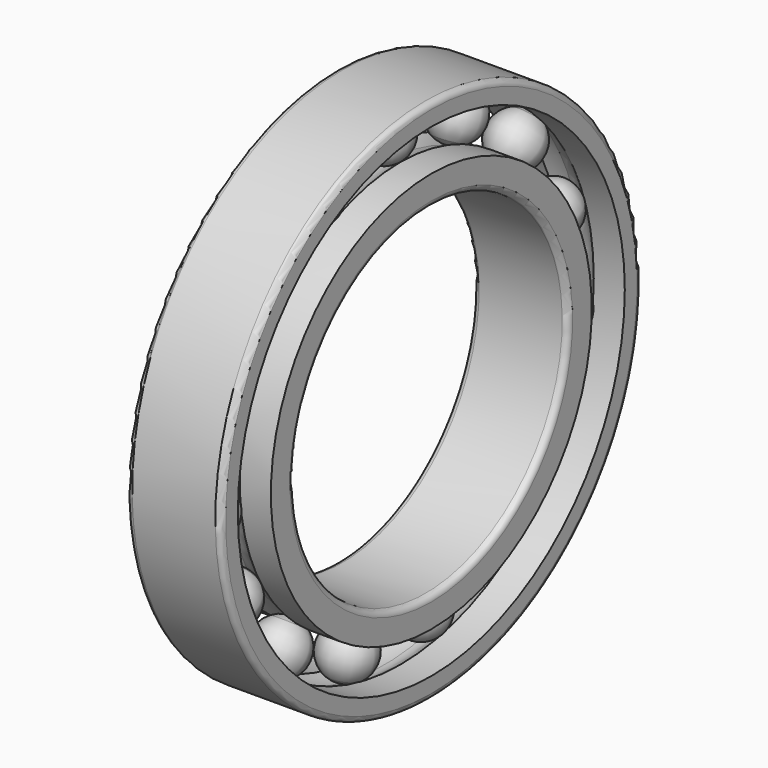
from build123d import *

# Parameters (mm, degrees)
F3_COUNT = 15


with BuildPart() as f1:
    # F0 (on Front) → F1 (revolve)
    with BuildSketch(Plane.XZ):
        with BuildLine():
            ThreePointArc((7.9, 32.5), (8.677817, 32.822183), (9, 33.6))
            Line((9, 33.6), (9, 38.15))
            Line((9, 38.15), (3.097479, 38.15))
            ThreePointArc((3.097479, 38.15), (1.63936, 37.351389), (0, 37.075))
            ThreePointArc((0, 37.075), (-1.63936, 37.351389), (-3.097479, 38.15))
            Line((-3.097479, 38.15), (-9, 38.15))
            Line((-9, 38.15), (-9, 33.6))
            ThreePointArc((-9, 33.6), (-8.677817, 32.822183), (-7.9, 32.5))
            Line((-7.9, 32.5), (7.9, 32.5))
        make_face()
        with BuildLine():
            ThreePointArc((0, 47.075), (1.63936, 46.798611), (3.097479, 46))
            Line((3.097479, 46), (9, 46))
            Line((9, 46), (9, 48.9))
            ThreePointArc((9, 48.9), (8.677817, 49.677817), (7.9, 50))
            Line((7.9, 50), (-7.9, 50))
            ThreePointArc((-7.9, 50), (-8.677817, 49.677817), (-9, 48.9))
            Line((-9, 48.9), (-9, 46))
            Line((-9, 46), (-3.097479, 46))
            ThreePointArc((-3.097479, 46), (-1.63936, 46.798611), (0, 47.075))
        make_face()
    revolve(axis=Axis((1.815256, 0, 0), (1, 0, 0)))


with BuildPart() as f2:
    # F0 (on Front) → F2 (revolve)
    with BuildSketch(Plane.XZ):
        with BuildLine():
            ThreePointArc((0, 37.075), (1.63936, 37.351389), (3.097479, 38.15))
            ThreePointArc((3.097479, 38.15), (5, 42.075), (3.097479, 46))
            ThreePointArc((3.097479, 46), (1.63936, 46.798611), (0, 47.075))
            Line((0, 47.075), (0, 37.075))
        make_face()
    revolve(axis=Axis((0, 0, 42.075), (0, 0, 1)))


with BuildPart() as f3_1:
    # F3: instance of F2
    add(f2.part.rotate(Axis((1.815256, 0, 0), (1, 0, 0)), 1 * 360 / F3_COUNT))


with BuildPart() as f3_2:
    # F3: instance of F2
    add(f2.part.rotate(Axis((1.815256, 0, 0), (1, 0, 0)), 2 * 360 / F3_COUNT))


with BuildPart() as f3_3:
    # F3: instance of F2
    add(f2.part.rotate(Axis((1.815256, 0, 0), (1, 0, 0)), 3 * 360 / F3_COUNT))


with BuildPart() as f3_4:
    # F3: instance of F2
    add(f2.part.rotate(Axis((1.815256, 0, 0), (1, 0, 0)), 4 * 360 / F3_COUNT))


with BuildPart() as f3_5:
    # F3: instance of F2
    add(f2.part.rotate(Axis((1.815256, 0, 0), (1, 0, 0)), 5 * 360 / F3_COUNT))


with BuildPart() as f3_6:
    # F3: instance of F2
    add(f2.part.rotate(Axis((1.815256, 0, 0), (1, 0, 0)), 6 * 360 / F3_COUNT))


with BuildPart() as f3_7:
    # F3: instance of F2
    add(f2.part.rotate(Axis((1.815256, 0, 0), (1, 0, 0)), 7 * 360 / F3_COUNT))


with BuildPart() as f3_8:
    # F3: instance of F2
    add(f2.part.rotate(Axis((1.815256, 0, 0), (1, 0, 0)), 8 * 360 / F3_COUNT))


with BuildPart() as f3_9:
    # F3: instance of F2
    add(f2.part.rotate(Axis((1.815256, 0, 0), (1, 0, 0)), 9 * 360 / F3_COUNT))


with BuildPart() as f3_10:
    # F3: instance of F2
    add(f2.part.rotate(Axis((1.815256, 0, 0), (1, 0, 0)), 10 * 360 / F3_COUNT))


with BuildPart() as f3_11:
    # F3: instance of F2
    add(f2.part.rotate(Axis((1.815256, 0, 0), (1, 0, 0)), 11 * 360 / F3_COUNT))


with BuildPart() as f3_12:
    # F3: instance of F2
    add(f2.part.rotate(Axis((1.815256, 0, 0), (1, 0, 0)), 12 * 360 / F3_COUNT))


with BuildPart() as f3_13:
    # F3: instance of F2
    add(f2.part.rotate(Axis((1.815256, 0, 0), (1, 0, 0)), 13 * 360 / F3_COUNT))


with BuildPart() as f3_14:
    # F3: instance of F2
    add(f2.part.rotate(Axis((1.815256, 0, 0), (1, 0, 0)), 14 * 360 / F3_COUNT))


solid = Compound([f1.part, f2.part, f3_1.part, f3_2.part, f3_3.part, f3_4.part, f3_5.part, f3_6.part, f3_7.part, f3_8.part, f3_9.part, f3_10.part, f3_11.part, f3_12.part, f3_13.part, f3_14.part])
